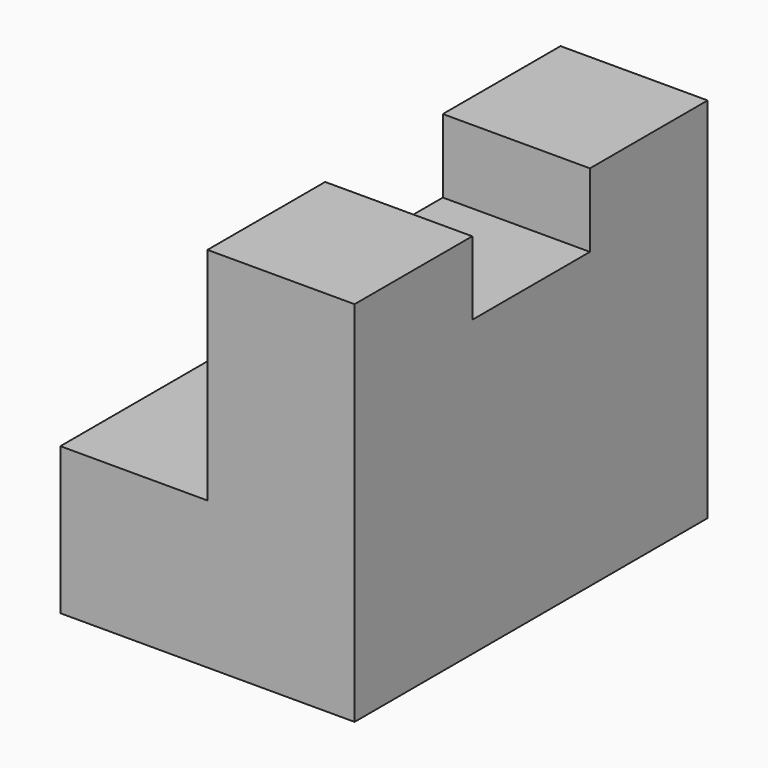
from build123d import *

# Parameters (mm, degrees)
F1_DEPTH = 38.1
F2_W     = 12.7
F2_H     = 6.35
F3_DEPTH = 12.7


with BuildPart() as f1:
    # F0 (on Front) → F1 (new body)
    with BuildSketch(Plane.XZ):
        Polygon((-25.4, 0), (0, 0), (0, 31.75), (-12.7, 31.75), (-12.7, 12.7), (-25.4, 12.7), align=None)
    extrude(amount=F1_DEPTH)

    # F2 (on face) → F3 (cut)
    with BuildSketch(Plane(origin=(-12.7, 0, 0), x_dir=(0, -1, 0), z_dir=(-1, 0, 0))):
        with Locations((19.05, 28.575)):
            Rectangle(F2_W, F2_H)
    extrude(amount=-F3_DEPTH, mode=Mode.SUBTRACT)


solid = f1.part
